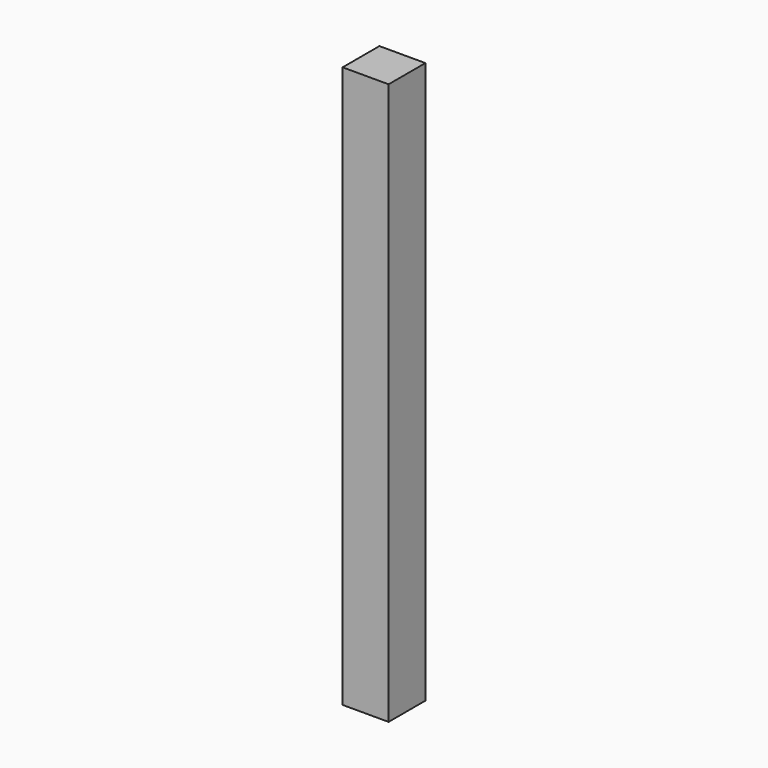
from build123d import *

# Parameters (mm, degrees)
F0_W     = 19
F0_H     = 232
F1_DEPTH = 19
F2_DEPTH = 19


with BuildPart() as f1:
    # F0 (on Front) → F1 (new body)
    with BuildSketch(Plane.XZ):
        with Locations((-1.228049, 116)):
            Rectangle(F0_W, F0_H)
        with Locations((-1.228049, 116)):
            Rectangle(F0_W, F0_H)
    extrude(amount=F1_DEPTH)

    # F0 (on Front) → F2 (join)
    with BuildSketch(Plane.XZ):
        with Locations((-1.228049, 116)):
            Rectangle(F0_W, F0_H)
    extrude(amount=F2_DEPTH)


solid = f1.part
